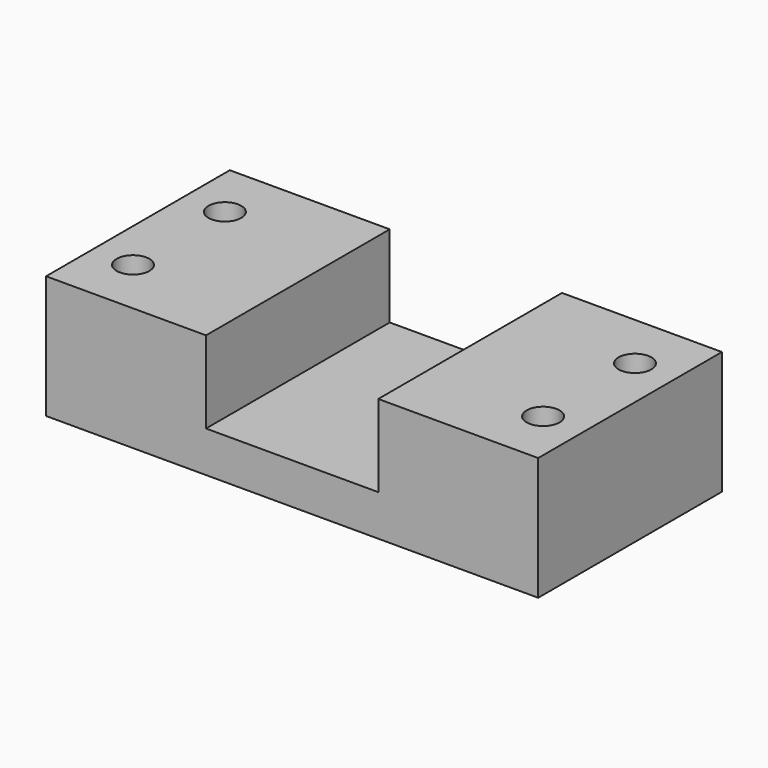
from build123d import *

# Parameters (mm, degrees)
F0_W     = 19.5
F0_H     = 28
F0_R     = 2
F0_W_2   = 21
F1_DEPTH = 5
F2_DEPTH = 10


with BuildPart() as f1:
    # F0 (on Top) → F1 (new body)
    with BuildSketch(Plane.XY):
        with Locations((20.25, 0)):
            Rectangle(F0_W, F0_H)
        with Locations((25, -7)):
            Circle(F0_R, mode=Mode.SUBTRACT)
        with Locations((25, 7)):
            Circle(F0_R, mode=Mode.SUBTRACT)
        Rectangle(F0_W_2, F0_H)
        with Locations((-20.25, 0)):
            Rectangle(F0_W, F0_H)
        with Locations((-25, -7)):
            Circle(F0_R, mode=Mode.SUBTRACT)
        with Locations((-25, 7)):
            Circle(F0_R, mode=Mode.SUBTRACT)
    extrude(amount=-F1_DEPTH)

    # F0 (on Top) → F2 (join)
    with BuildSketch(Plane.XY):
        with Locations((-20.25, 0)):
            Rectangle(F0_W, F0_H)
        with Locations((-25, -7)):
            Circle(F0_R, mode=Mode.SUBTRACT)
        with Locations((-25, 7)):
            Circle(F0_R, mode=Mode.SUBTRACT)
        with Locations((20.25, 0)):
            Rectangle(F0_W, F0_H)
        with Locations((25, -7)):
            Circle(F0_R, mode=Mode.SUBTRACT)
        with Locations((25, 7)):
            Circle(F0_R, mode=Mode.SUBTRACT)
    extrude(amount=F2_DEPTH)


solid = f1.part
